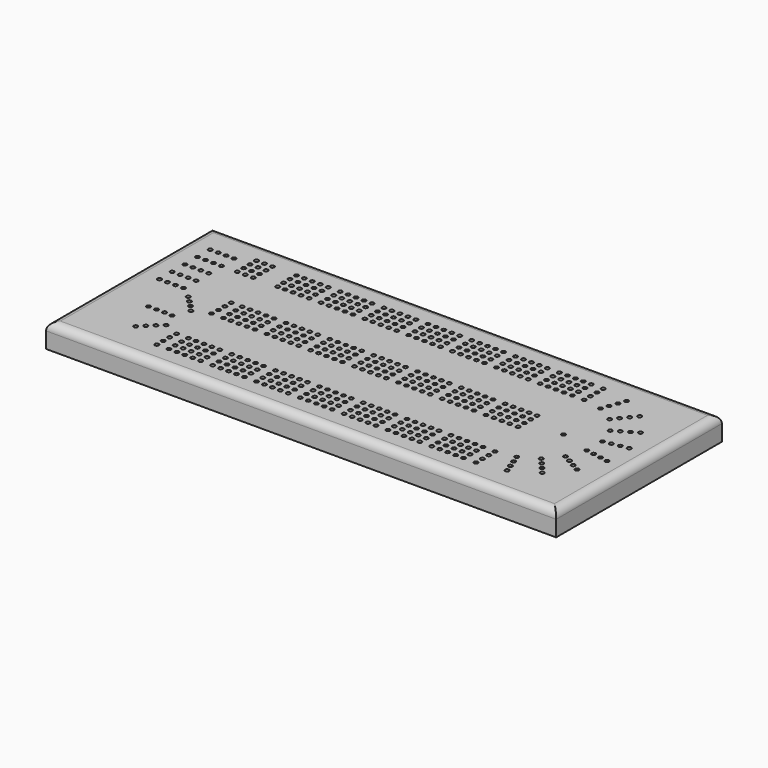
from build123d import *

# Parameters (mm, degrees)
F0_W     = 406.4
F0_H     = 165.1
F1_DEPTH = 19.05
F2_R     = 6.35
F3_R     = 1.5875
F4_DEPTH = 6.35


with BuildPart() as f1:
    # F0 (on Top) → F1 (new body)
    with BuildSketch(Plane.XY):
        with Locations((203.2, 82.55)):
            Rectangle(F0_W, F0_H)
    extrude(amount=F1_DEPTH)

    # F2
    f2_edges = [f1.edges().sort_by_distance(p)[0] for p in [
        (0, 82.55, 19.05),
        (203.2, 165.1, 19.05),
        (203.2, 0, 19.05),
        (406.4, 82.55, 19.05),
    ]]
    fillet(f2_edges, radius=F2_R)

    # F3 (on face) → F4 (cut)
    with BuildSketch(Plane.XY.offset(19.05)):
        with BuildLine():
            ThreePointArc((20.6375, 139.7), (19.05, 141.2875), (17.4625, 139.7))
            Line((17.4625, 139.7), (19.05, 139.7))
            Line((19.05, 139.7), (20.6375, 139.7))
        make_face()
        with BuildLine():
            ThreePointArc((39.6875, 139.7), (38.1, 141.2875), (36.5125, 139.7))
            ThreePointArc((36.5125, 139.7), (38.1, 138.1125), (39.6875, 139.7))
        make_face()
        with BuildLine():
            ThreePointArc((33.3375, 139.7), (31.75, 141.2875), (30.1625, 139.7))
            Line((30.1625, 139.7), (31.75, 139.7))
            Line((31.75, 139.7), (33.3375, 139.7))
        make_face()
        with BuildLine():
            Line((31.75, 139.7), (30.1625, 139.7))
            ThreePointArc((30.1625, 139.7), (31.75, 138.1125), (33.3375, 139.7))
            Line((33.3375, 139.7), (31.75, 139.7))
        make_face()
        with BuildLine():
            ThreePointArc((26.9875, 139.7), (25.4, 141.2875), (23.8125, 139.7))
            Line((23.8125, 139.7), (25.4, 139.7))
            Line((25.4, 139.7), (26.9875, 139.7))
        make_face()
        with BuildLine():
            Line((25.4, 139.7), (23.8125, 139.7))
            ThreePointArc((23.8125, 139.7), (25.4, 138.1125), (26.9875, 139.7))
            Line((26.9875, 139.7), (25.4, 139.7))
        make_face()
        with BuildLine():
            Line((19.05, 139.7), (17.4625, 139.7))
            ThreePointArc((17.4625, 139.7), (19.05, 138.1125), (20.6375, 139.7))
            Line((20.6375, 139.7), (19.05, 139.7))
        make_face()
        with Locations((50.8, 146.05)):
            Circle(F3_R)
        with Locations((50.8, 139.7)):
            Circle(F3_R)
        with Locations((50.8, 133.35)):
            Circle(F3_R)
        with Locations((50.8, 127)):
            Circle(F3_R)
        with Locations((31.796032, 127.000083)):
            Circle(F3_R)
        with Locations((25.446032, 127.000083)):
            Circle(F3_R)
        with Locations((19.096032, 127.000083)):
            Circle(F3_R)
        with Locations((38.146032, 127.000083)):
            Circle(F3_R)
        with Locations((31.842063, 114.300167)):
            Circle(F3_R)
        with Locations((25.492063, 114.300167)):
            Circle(F3_R)
        with Locations((19.142063, 114.300167)):
            Circle(F3_R)
        with Locations((38.192063, 114.300167)):
            Circle(F3_R)
        with Locations((31.888095, 101.60025)):
            Circle(F3_R)
        with Locations((25.538095, 101.60025)):
            Circle(F3_R)
        with Locations((19.188095, 101.60025)):
            Circle(F3_R)
        with Locations((38.238095, 101.60025)):
            Circle(F3_R)
        with Locations((31.934126, 88.900334)):
            Circle(F3_R)
        with Locations((25.584126, 88.900334)):
            Circle(F3_R)
        with Locations((19.234126, 88.900334)):
            Circle(F3_R)
        with Locations((38.284126, 88.900334)):
            Circle(F3_R)
        with Locations((57.15, 146.05)):
            Circle(F3_R)
        with Locations((57.15, 139.7)):
            Circle(F3_R)
        with Locations((57.15, 133.35)):
            Circle(F3_R)
        with Locations((57.15, 127)):
            Circle(F3_R)
        with Locations((63.5, 146.05)):
            Circle(F3_R)
        with Locations((63.5, 139.7)):
            Circle(F3_R)
        with Locations((63.5, 133.35)):
            Circle(F3_R)
        with Locations((63.5, 127)):
            Circle(F3_R)
        with Locations((95.25, 133.35)):
            Circle(F3_R)
        with Locations((88.9, 139.7)):
            Circle(F3_R)
        with Locations((88.9, 146.05)):
            Circle(F3_R)
        with Locations((82.55, 133.35)):
            Circle(F3_R)
        with Locations((82.55, 139.7)):
            Circle(F3_R)
        with Locations((82.55, 146.05)):
            Circle(F3_R)
        with Locations((95.25, 139.7)):
            Circle(F3_R)
        with Locations((95.25, 146.05)):
            Circle(F3_R)
        with Locations((88.9, 133.35)):
            Circle(F3_R)
        with Locations((82.973688, 127.005139)):
            Circle(F3_R)
        with Locations((95.25, 127)):
            Circle(F3_R)
        with Locations((88.9, 127)):
            Circle(F3_R)
        with Locations((101.6, 139.7)):
            Circle(F3_R)
        with Locations((101.6, 133.35)):
            Circle(F3_R)
        with Locations((101.6, 127)):
            Circle(F3_R)
        with Locations((101.6, 146.05)):
            Circle(F3_R)
        with Locations((107.95, 139.7)):
            Circle(F3_R)
        with Locations((107.95, 133.35)):
            Circle(F3_R)
        with Locations((107.95, 127)):
            Circle(F3_R)
        with Locations((107.95, 146.05)):
            Circle(F3_R)
        with Locations((142.875, 146.05)):
            Circle(F3_R)
        with Locations((117.475, 146.05)):
            Circle(F3_R)
        with Locations((136.525, 139.7)):
            Circle(F3_R)
        with Locations((123.825, 146.05)):
            Circle(F3_R)
        with Locations((117.475, 127)):
            Circle(F3_R)
        with Locations((142.875, 133.35)):
            Circle(F3_R)
        with Locations((117.475, 133.35)):
            Circle(F3_R)
        with Locations((130.175, 127)):
            Circle(F3_R)
        with Locations((123.825, 127)):
            Circle(F3_R)
        with Locations((142.875, 127)):
            Circle(F3_R)
        with Locations((117.475, 139.7)):
            Circle(F3_R)
        with Locations((130.175, 139.7)):
            Circle(F3_R)
        with Locations((136.525, 133.35)):
            Circle(F3_R)
        with Locations((136.525, 146.05)):
            Circle(F3_R)
        with Locations((123.825, 139.7)):
            Circle(F3_R)
        with Locations((130.175, 146.05)):
            Circle(F3_R)
        with Locations((123.825, 133.35)):
            Circle(F3_R)
        with Locations((142.875, 139.7)):
            Circle(F3_R)
        with Locations((136.525, 127)):
            Circle(F3_R)
        with Locations((130.175, 133.35)):
            Circle(F3_R)
        with Locations((177.8, 146.05)):
            Circle(F3_R)
        with Locations((152.4, 146.05)):
            Circle(F3_R)
        with Locations((171.45, 139.7)):
            Circle(F3_R)
        with Locations((158.75, 146.05)):
            Circle(F3_R)
        with Locations((152.4, 127)):
            Circle(F3_R)
        with Locations((177.8, 133.35)):
            Circle(F3_R)
        with Locations((152.4, 133.35)):
            Circle(F3_R)
        with Locations((165.1, 127)):
            Circle(F3_R)
        with Locations((158.75, 127)):
            Circle(F3_R)
        with Locations((177.8, 127)):
            Circle(F3_R)
        with Locations((152.4, 139.7)):
            Circle(F3_R)
        with Locations((165.1, 139.7)):
            Circle(F3_R)
        with Locations((171.45, 133.35)):
            Circle(F3_R)
        with Locations((171.45, 146.05)):
            Circle(F3_R)
        with Locations((158.75, 139.7)):
            Circle(F3_R)
        with Locations((165.1, 146.05)):
            Circle(F3_R)
        with Locations((158.75, 133.35)):
            Circle(F3_R)
        with Locations((177.8, 139.7)):
            Circle(F3_R)
        with Locations((171.45, 127)):
            Circle(F3_R)
        with Locations((165.1, 133.35)):
            Circle(F3_R)
        with Locations((212.725, 146.05)):
            Circle(F3_R)
        with Locations((187.325, 146.05)):
            Circle(F3_R)
        with Locations((206.375, 139.7)):
            Circle(F3_R)
        with Locations((193.675, 146.05)):
            Circle(F3_R)
        with Locations((187.325, 127)):
            Circle(F3_R)
        with Locations((212.725, 133.35)):
            Circle(F3_R)
        with Locations((187.325, 133.35)):
            Circle(F3_R)
        with Locations((200.025, 127)):
            Circle(F3_R)
        with Locations((193.675, 127)):
            Circle(F3_R)
        with Locations((212.725, 127)):
            Circle(F3_R)
        with Locations((187.325, 139.7)):
            Circle(F3_R)
        with Locations((200.025, 139.7)):
            Circle(F3_R)
        with Locations((206.375, 133.35)):
            Circle(F3_R)
        with Locations((206.375, 146.05)):
            Circle(F3_R)
        with Locations((193.675, 139.7)):
            Circle(F3_R)
        with Locations((200.025, 146.05)):
            Circle(F3_R)
        with Locations((193.675, 133.35)):
            Circle(F3_R)
        with Locations((212.725, 139.7)):
            Circle(F3_R)
        with Locations((206.375, 127)):
            Circle(F3_R)
        with Locations((200.025, 133.35)):
            Circle(F3_R)
        with Locations((247.65, 146.05)):
            Circle(F3_R)
        with Locations((222.25, 146.05)):
            Circle(F3_R)
        with Locations((241.3, 139.7)):
            Circle(F3_R)
        with Locations((228.6, 146.05)):
            Circle(F3_R)
        with Locations((222.25, 127)):
            Circle(F3_R)
        with Locations((247.65, 133.35)):
            Circle(F3_R)
        with Locations((222.25, 133.35)):
            Circle(F3_R)
        with Locations((234.95, 127)):
            Circle(F3_R)
        with Locations((228.6, 127)):
            Circle(F3_R)
        with Locations((247.65, 127)):
            Circle(F3_R)
        with Locations((222.25, 139.7)):
            Circle(F3_R)
        with Locations((234.95, 139.7)):
            Circle(F3_R)
        with Locations((241.3, 133.35)):
            Circle(F3_R)
        with Locations((241.3, 146.05)):
            Circle(F3_R)
        with Locations((228.6, 139.7)):
            Circle(F3_R)
        with Locations((234.95, 146.05)):
            Circle(F3_R)
        with Locations((228.6, 133.35)):
            Circle(F3_R)
        with Locations((247.65, 139.7)):
            Circle(F3_R)
        with Locations((241.3, 127)):
            Circle(F3_R)
        with Locations((234.95, 133.35)):
            Circle(F3_R)
        with Locations((282.575, 146.05)):
            Circle(F3_R)
        with Locations((257.175, 146.05)):
            Circle(F3_R)
        with Locations((276.225, 139.7)):
            Circle(F3_R)
        with Locations((263.525, 146.05)):
            Circle(F3_R)
        with Locations((257.175, 127)):
            Circle(F3_R)
        with Locations((282.575, 133.35)):
            Circle(F3_R)
        with Locations((257.175, 133.35)):
            Circle(F3_R)
        with Locations((269.875, 127)):
            Circle(F3_R)
        with Locations((263.525, 127)):
            Circle(F3_R)
        with Locations((282.575, 127)):
            Circle(F3_R)
        with Locations((257.175, 139.7)):
            Circle(F3_R)
        with Locations((269.875, 139.7)):
            Circle(F3_R)
        with Locations((276.225, 133.35)):
            Circle(F3_R)
        with Locations((276.225, 146.05)):
            Circle(F3_R)
        with Locations((263.525, 139.7)):
            Circle(F3_R)
        with Locations((269.875, 146.05)):
            Circle(F3_R)
        with Locations((263.525, 133.35)):
            Circle(F3_R)
        with Locations((282.575, 139.7)):
            Circle(F3_R)
        with Locations((276.225, 127)):
            Circle(F3_R)
        with Locations((269.875, 133.35)):
            Circle(F3_R)
        with Locations((317.5, 146.05)):
            Circle(F3_R)
        with Locations((292.1, 146.05)):
            Circle(F3_R)
        with Locations((311.15, 139.7)):
            Circle(F3_R)
        with Locations((298.45, 146.05)):
            Circle(F3_R)
        with Locations((292.1, 127)):
            Circle(F3_R)
        with Locations((317.5, 133.35)):
            Circle(F3_R)
        with Locations((292.1, 133.35)):
            Circle(F3_R)
        with Locations((304.8, 127)):
            Circle(F3_R)
        with Locations((298.45, 127)):
            Circle(F3_R)
        with Locations((317.634792, 127)):
            Circle(F3_R)
        with Locations((292.1, 139.7)):
            Circle(F3_R)
        with Locations((304.8, 139.7)):
            Circle(F3_R)
        with Locations((311.15, 133.35)):
            Circle(F3_R)
        with Locations((311.15, 146.05)):
            Circle(F3_R)
        with Locations((298.45, 139.7)):
            Circle(F3_R)
        with Locations((304.8, 146.05)):
            Circle(F3_R)
        with Locations((298.45, 133.35)):
            Circle(F3_R)
        with Locations((317.5, 139.7)):
            Circle(F3_R)
        with Locations((311.15, 127)):
            Circle(F3_R)
        with Locations((304.8, 133.35)):
            Circle(F3_R)
        with BuildLine():
            ThreePointArc((328.882084, 19.05), (328.368403, 20.219217), (327.159792, 20.631767))
            Line((327.159792, 20.631767), (327.159792, 17.468233))
            ThreePointArc((327.159792, 17.468233), (328.368403, 17.880783), (328.882084, 19.05))
        make_face()
        with BuildLine():
            Line((327.159792, 17.468233), (327.159792, 20.631767))
            ThreePointArc((327.159792, 20.631767), (325.707084, 19.05), (327.159792, 17.468233))
        make_face()
        with BuildLine():
            ThreePointArc((328.882084, 25.4), (328.368403, 26.569217), (327.159792, 26.981767))
            Line((327.159792, 26.981767), (327.159792, 23.818233))
            ThreePointArc((327.159792, 23.818233), (328.368403, 24.230783), (328.882084, 25.4))
        make_face()
        with BuildLine():
            Line((327.159792, 23.818233), (327.159792, 26.981767))
            ThreePointArc((327.159792, 26.981767), (325.707084, 25.4), (327.159792, 23.818233))
        make_face()
        with BuildLine():
            ThreePointArc((328.882084, 31.75), (328.368403, 32.919217), (327.159792, 33.331767))
            Line((327.159792, 33.331767), (327.159792, 30.168233))
            ThreePointArc((327.159792, 30.168233), (328.368403, 30.580783), (328.882084, 31.75))
        make_face()
        with BuildLine():
            Line((327.159792, 30.168233), (327.159792, 33.331767))
            ThreePointArc((327.159792, 33.331767), (325.707084, 31.75), (327.159792, 30.168233))
        make_face()
        with BuildLine():
            ThreePointArc((328.747292, 38.1), (328.282324, 39.222532), (327.159792, 39.6875))
            Line((327.159792, 39.6875), (327.159792, 36.5125))
            ThreePointArc((327.159792, 36.5125), (328.282324, 36.977468), (328.747292, 38.1))
        make_face()
        with BuildLine():
            Line((327.159792, 36.5125), (327.159792, 39.6875))
            ThreePointArc((327.159792, 39.6875), (325.572292, 38.1), (327.159792, 36.5125))
        make_face()
        with BuildLine():
            ThreePointArc((347.797292, 82.55), (346.209792, 84.1375), (344.622292, 82.55))
            Line((344.622292, 82.55), (346.209792, 82.55))
            Line((346.209792, 82.55), (347.797292, 82.55))
        make_face()
        with BuildLine():
            Line((346.209792, 82.55), (344.622292, 82.55))
            ThreePointArc((344.622292, 82.55), (346.209792, 80.9625), (347.797292, 82.55))
            Line((347.797292, 82.55), (346.209792, 82.55))
        make_face()
        with Locations((327.159792, 127)):
            Circle(F3_R)
        with Locations((327.025, 133.35)):
            Circle(F3_R)
        with Locations((327.025, 139.7)):
            Circle(F3_R)
        with Locations((327.025, 146.05)):
            Circle(F3_R)
        with Locations((348.751408, 142.266583)):
            Circle(F3_R)
        with Locations((346.57958, 136.299535)):
            Circle(F3_R)
        with Locations((342.362588, 124.319337)):
            Circle(F3_R)
        with Locations((344.407752, 130.332487)):
            Circle(F3_R)
        with Locations((367.873549, 131.280465)):
            Circle(F3_R)
        with Locations((363.791847, 126.416083)):
            Circle(F3_R)
        with Locations((355.731701, 116.600675)):
            Circle(F3_R)
        with Locations((359.710146, 121.5517)):
            Circle(F3_R)
        with Locations((382.085009, 114.416733)):
            Circle(F3_R)
        with Locations((376.585748, 111.241733)):
            Circle(F3_R)
        with Locations((365.654621, 104.775)):
            Circle(F3_R)
        with Locations((371.086487, 108.066733)):
            Circle(F3_R)
        with Locations((389.671678, 93.709404)):
            Circle(F3_R)
        with Locations((383.418149, 92.606738)):
            Circle(F3_R)
        with Locations((370.934497, 90.268661)):
            Circle(F3_R)
        with Locations((377.16462, 91.504072)):
            Circle(F3_R)
        with Locations((389.718491, 71.656085)):
            Circle(F3_R)
        with Locations((383.464962, 72.758751)):
            Circle(F3_R)
        with Locations((370.934497, 74.831339)):
            Circle(F3_R)
        with Locations((377.211432, 73.861417)):
            Circle(F3_R)
        with Locations((382.219801, 50.916733)):
            Circle(F3_R)
        with Locations((376.72054, 54.091733)):
            Circle(F3_R)
        with Locations((365.654621, 60.325)):
            Circle(F3_R)
        with Locations((371.221279, 57.266733)):
            Circle(F3_R)
        with Locations((368.080062, 33.992821)):
            Circle(F3_R)
        with Locations((363.998361, 38.857203)):
            Circle(F3_R)
        with Locations((355.731701, 48.499325)):
            Circle(F3_R)
        with Locations((359.91666, 43.721585)):
            Circle(F3_R)
        with Locations((349.004735, 22.92562)):
            Circle(F3_R)
        with Locations((346.832907, 28.892668)):
            Circle(F3_R)
        with Locations((342.362588, 40.780663)):
            Circle(F3_R)
        with Locations((344.661079, 34.859717)):
            Circle(F3_R)
        with Locations((317.5, 19.05)):
            Circle(F3_R)
        with Locations((311.15, 25.4)):
            Circle(F3_R)
        with Locations((317.5, 25.4)):
            Circle(F3_R)
        with Locations((276.225, 25.4)):
            Circle(F3_R)
        with Locations((95.25, 19.05)):
            Circle(F3_R)
        with Locations((123.825, 19.05)):
            Circle(F3_R)
        with Locations((257.175, 19.05)):
            Circle(F3_R)
        with Locations((282.575, 25.4)):
            Circle(F3_R)
        with Locations((311.15, 19.05)):
            Circle(F3_R)
        with Locations((142.875, 25.4)):
            Circle(F3_R)
        with Locations((171.45, 19.05)):
            Circle(F3_R)
        with Locations((95.25, 25.4)):
            Circle(F3_R)
        with Locations((136.525, 25.4)):
            Circle(F3_R)
        with Locations((171.45, 31.75)):
            Circle(F3_R)
        with Locations((117.475, 19.05)):
            Circle(F3_R)
        with Locations((95.25, 31.75)):
            Circle(F3_R)
        with Locations((263.525, 31.75)):
            Circle(F3_R)
        with Locations((311.15, 31.75)):
            Circle(F3_R)
        with Locations((269.875, 19.05)):
            Circle(F3_R)
        with Locations((304.8, 25.4)):
            Circle(F3_R)
        with Locations((165.1, 25.4)):
            Circle(F3_R)
        with Locations((228.6, 19.05)):
            Circle(F3_R)
        with Locations((228.6, 25.4)):
            Circle(F3_R)
        with Locations((257.175, 25.4)):
            Circle(F3_R)
        with Locations((241.3, 19.05)):
            Circle(F3_R)
        with Locations((317.5, 31.75)):
            Circle(F3_R)
        with Locations((117.475, 25.4)):
            Circle(F3_R)
        with Locations((101.6, 38.1)):
            Circle(F3_R)
        with Locations((177.8, 31.75)):
            Circle(F3_R)
        with Locations((298.45, 31.75)):
            Circle(F3_R)
        with Locations((101.6, 19.05)):
            Circle(F3_R)
        with Locations((263.525, 25.4)):
            Circle(F3_R)
        with Locations((292.1, 25.4)):
            Circle(F3_R)
        with Locations((130.175, 25.4)):
            Circle(F3_R)
        with Locations((177.8, 19.05)):
            Circle(F3_R)
        with Locations((130.175, 19.05)):
            Circle(F3_R)
        with Locations((241.3, 25.4)):
            Circle(F3_R)
        with Locations((158.75, 31.75)):
            Circle(F3_R)
        with Locations((107.95, 19.05)):
            Circle(F3_R)
        with BuildLine():
            ThreePointArc((317.634792, 39.6875), (316.51226, 36.977468), (319.222292, 38.1))
            ThreePointArc((319.222292, 38.1), (318.757324, 39.222532), (317.634792, 39.6875))
        make_face()
        with BuildLine():
            ThreePointArc((319.222292, 73.025), (316.51226, 74.147532), (317.634792, 71.4375))
            ThreePointArc((317.634792, 71.4375), (318.757324, 71.902468), (319.222292, 73.025))
        make_face()
        with Locations((123.825, 25.4)):
            Circle(F3_R)
        with Locations((222.25, 19.05)):
            Circle(F3_R)
        with Locations((142.875, 31.75)):
            Circle(F3_R)
        with Locations((101.6, 31.75)):
            Circle(F3_R)
        with Locations((304.8, 31.75)):
            Circle(F3_R)
        with Locations((88.9, 19.05)):
            Circle(F3_R)
        with Locations((234.95, 25.4)):
            Circle(F3_R)
        with Locations((101.6, 25.4)):
            Circle(F3_R)
        with Locations((165.1, 31.75)):
            Circle(F3_R)
        with Locations((276.225, 31.75)):
            Circle(F3_R)
        with Locations((311.15, 38.1)):
            Circle(F3_R)
        with Locations((222.25, 25.4)):
            Circle(F3_R)
        with Locations((158.75, 38.1)):
            Circle(F3_R)
        with Locations((107.95, 31.75)):
            Circle(F3_R)
        with Locations((263.525, 19.05)):
            Circle(F3_R)
        with Locations((269.875, 31.75)):
            Circle(F3_R)
        with Locations((234.95, 19.05)):
            Circle(F3_R)
        with Locations((304.8, 38.1)):
            Circle(F3_R)
        with Locations((269.875, 25.4)):
            Circle(F3_R)
        with Locations((165.1, 19.05)):
            Circle(F3_R)
        with Locations((136.525, 31.75)):
            Circle(F3_R)
        with Locations((107.95, 25.4)):
            Circle(F3_R)
        with Locations((88.9, 38.1)):
            Circle(F3_R)
        with Locations((171.45, 25.4)):
            Circle(F3_R)
        with Locations((88.9, 31.75)):
            Circle(F3_R)
        with Locations((282.575, 31.75)):
            Circle(F3_R)
        with Locations((95.25, 38.1)):
            Circle(F3_R)
        with Locations((177.8, 25.4)):
            Circle(F3_R)
        with Locations((117.475, 31.75)):
            Circle(F3_R)
        with Locations((276.225, 38.1)):
            Circle(F3_R)
        with Locations((298.45, 25.4)):
            Circle(F3_R)
        with Locations((158.75, 25.4)):
            Circle(F3_R)
        with Locations((187.325, 25.4)):
            Circle(F3_R)
        with Locations((222.25, 31.75)):
            Circle(F3_R)
        with Locations((212.725, 38.1)):
            Circle(F3_R)
        with Locations((247.65, 31.75)):
            Circle(F3_R)
        with Locations((123.825, 31.75)):
            Circle(F3_R)
        with Locations((193.675, 38.1)):
            Circle(F3_R)
        with Locations((222.25, 38.1)):
            Circle(F3_R)
        with Locations((82.55, 19.05)):
            Circle(F3_R)
        with Locations((206.375, 25.4)):
            Circle(F3_R)
        with Locations((152.4, 31.75)):
            Circle(F3_R)
        with Locations((282.575, 19.05)):
            Circle(F3_R)
        with Locations((82.55, 25.4)):
            Circle(F3_R)
        with Locations((142.875, 19.05)):
            Circle(F3_R)
        with Locations((234.95, 31.75)):
            Circle(F3_R)
        with Locations((200.025, 38.1)):
            Circle(F3_R)
        with Locations((206.375, 38.1)):
            Circle(F3_R)
        with Locations((212.725, 25.4)):
            Circle(F3_R)
        with Locations((257.175, 38.1)):
            Circle(F3_R)
        with Locations((292.1, 31.75)):
            Circle(F3_R)
        with Locations((187.325, 19.05)):
            Circle(F3_R)
        with Locations((241.3, 38.1)):
            Circle(F3_R)
        with Locations((152.4, 25.4)):
            Circle(F3_R)
        with Locations((187.325, 31.75)):
            Circle(F3_R)
        with Locations((206.375, 31.75)):
            Circle(F3_R)
        with Locations((247.65, 25.4)):
            Circle(F3_R)
        with Locations((228.6, 38.1)):
            Circle(F3_R)
        with Locations((276.225, 19.05)):
            Circle(F3_R)
        with Locations((177.8, 38.1)):
            Circle(F3_R)
        with Locations((212.725, 31.75)):
            Circle(F3_R)
        with BuildLine():
            ThreePointArc((82.973688, 39.682361), (81.851156, 36.972329), (84.561188, 38.094861))
            ThreePointArc((84.561188, 38.094861), (84.09622, 39.217393), (82.973688, 39.682361))
        make_face()
        with BuildLine():
            ThreePointArc((75.036188, 38.094861), (74.57122, 39.217393), (73.448688, 39.682361))
            ThreePointArc((73.448688, 39.682361), (72.326156, 36.972329), (75.036188, 38.094861))
        make_face()
        with BuildLine():
            ThreePointArc((84.561188, 73.030139), (81.851156, 74.152671), (82.973688, 71.442639))
            ThreePointArc((82.973688, 71.442639), (84.09622, 71.907607), (84.561188, 73.030139))
        make_face()
        with Locations((241.3, 31.75)):
            Circle(F3_R)
        with Locations((193.675, 31.75)):
            Circle(F3_R)
        with Locations((263.525, 38.1)):
            Circle(F3_R)
        with Locations((292.1, 38.1)):
            Circle(F3_R)
        with Locations((212.725, 19.05)):
            Circle(F3_R)
        with Locations((152.4, 38.1)):
            Circle(F3_R)
        with Locations((107.95, 38.1)):
            Circle(F3_R)
        with Locations((200.025, 19.05)):
            Circle(F3_R)
        with Locations((298.45, 19.05)):
            Circle(F3_R)
        with Locations((269.875, 38.1)):
            Circle(F3_R)
        with Locations((123.825, 38.1)):
            Circle(F3_R)
        with Locations((158.75, 19.05)):
            Circle(F3_R)
        with Locations((228.6, 31.75)):
            Circle(F3_R)
        with Locations((298.45, 38.1)):
            Circle(F3_R)
        with Locations((193.675, 25.4)):
            Circle(F3_R)
        with Locations((136.525, 19.05)):
            Circle(F3_R)
        with Locations((257.175, 31.75)):
            Circle(F3_R)
        with Locations((187.325, 38.1)):
            Circle(F3_R)
        with Locations((247.65, 19.05)):
            Circle(F3_R)
        with Locations((304.8, 19.05)):
            Circle(F3_R)
        with Locations((130.175, 31.75)):
            Circle(F3_R)
        with Locations((165.1, 38.1)):
            Circle(F3_R)
        with Locations((193.675, 19.05)):
            Circle(F3_R)
        with Locations((200.025, 31.75)):
            Circle(F3_R)
        with Locations((200.025, 25.4)):
            Circle(F3_R)
        with Locations((88.9, 25.4)):
            Circle(F3_R)
        with Locations((130.175, 38.1)):
            Circle(F3_R)
        with Locations((171.45, 38.1)):
            Circle(F3_R)
        with Locations((117.475, 38.1)):
            Circle(F3_R)
        with Locations((206.375, 19.05)):
            Circle(F3_R)
        with Locations((247.65, 38.1)):
            Circle(F3_R)
        with Locations((292.1, 19.05)):
            Circle(F3_R)
        with Locations((152.4, 19.05)):
            Circle(F3_R)
        with Locations((136.525, 38.1)):
            Circle(F3_R)
        with Locations((282.575, 38.1)):
            Circle(F3_R)
        with Locations((82.55, 31.75)):
            Circle(F3_R)
        with Locations((142.875, 38.1)):
            Circle(F3_R)
        with Locations((234.95, 38.1)):
            Circle(F3_R)
        with Locations((123.825, 92.075)):
            Circle(F3_R)
        with Locations((117.475, 92.075)):
            Circle(F3_R)
        with Locations((88.9, 92.075)):
            Circle(F3_R)
        with Locations((82.55, 92.075)):
            Circle(F3_R)
        with Locations((82.55, 79.375)):
            Circle(F3_R)
        with Locations((222.25, 79.375)):
            Circle(F3_R)
        with Locations((257.175, 73.025)):
            Circle(F3_R)
        with Locations((292.1, 73.025)):
            Circle(F3_R)
        with Locations((304.8, 92.075)):
            Circle(F3_R)
        with Locations((95.25, 85.725)):
            Circle(F3_R)
        with Locations((117.475, 85.725)):
            Circle(F3_R)
        with Locations((142.875, 79.375)):
            Circle(F3_R)
        with Locations((304.8, 73.025)):
            Circle(F3_R)
        with Locations((282.575, 73.025)):
            Circle(F3_R)
        with Locations((187.325, 85.725)):
            Circle(F3_R)
        with Locations((212.725, 85.725)):
            Circle(F3_R)
        with Locations((263.525, 73.025)):
            Circle(F3_R)
        with Locations((247.65, 92.075)):
            Circle(F3_R)
        with Locations((171.45, 92.075)):
            Circle(F3_R)
        with Locations((317.5, 79.375)):
            Circle(F3_R)
        with Locations((222.25, 92.075)):
            Circle(F3_R)
        with Locations((234.95, 92.075)):
            Circle(F3_R)
        with Locations((136.525, 73.025)):
            Circle(F3_R)
        with Locations((158.75, 85.725)):
            Circle(F3_R)
        with Locations((206.375, 73.025)):
            Circle(F3_R)
        with Locations((193.675, 79.375)):
            Circle(F3_R)
        with Locations((187.325, 73.025)):
            Circle(F3_R)
        with Locations((142.875, 85.725)):
            Circle(F3_R)
        with Locations((241.3, 92.075)):
            Circle(F3_R)
        with Locations((123.825, 85.725)):
            Circle(F3_R)
        with Locations((269.875, 79.375)):
            Circle(F3_R)
        with Locations((152.4, 92.075)):
            Circle(F3_R)
        with Locations((298.45, 85.725)):
            Circle(F3_R)
        with Locations((200.025, 73.025)):
            Circle(F3_R)
        with Locations((241.3, 79.375)):
            Circle(F3_R)
        with Locations((257.175, 79.375)):
            Circle(F3_R)
        with Locations((311.15, 92.075)):
            Circle(F3_R)
        with Locations((257.175, 85.725)):
            Circle(F3_R)
        with Locations((263.525, 92.075)):
            Circle(F3_R)
        with Locations((117.475, 73.025)):
            Circle(F3_R)
        with Locations((228.6, 79.375)):
            Circle(F3_R)
        with Locations((276.225, 92.075)):
            Circle(F3_R)
        with Locations((95.25, 92.075)):
            Circle(F3_R)
        with Locations((282.575, 92.075)):
            Circle(F3_R)
        with Locations((95.25, 73.025)):
            Circle(F3_R)
        with Locations((222.25, 85.725)):
            Circle(F3_R)
        with Locations((130.175, 92.075)):
            Circle(F3_R)
        with Locations((212.725, 73.025)):
            Circle(F3_R)
        with Locations((269.875, 85.725)):
            Circle(F3_R)
        with Locations((101.6, 73.025)):
            Circle(F3_R)
        with Locations((101.6, 79.375)):
            Circle(F3_R)
        with Locations((142.875, 73.025)):
            Circle(F3_R)
        with Locations((165.1, 85.725)):
            Circle(F3_R)
        with Locations((130.175, 79.375)):
            Circle(F3_R)
        with Locations((177.8, 85.725)):
            Circle(F3_R)
        with Locations((82.55, 85.725)):
            Circle(F3_R)
        with Locations((158.75, 73.025)):
            Circle(F3_R)
        with Locations((298.45, 73.025)):
            Circle(F3_R)
        with Locations((241.3, 85.725)):
            Circle(F3_R)
        with Locations((206.375, 92.075)):
            Circle(F3_R)
        with Locations((177.8, 73.025)):
            Circle(F3_R)
        with Locations((136.525, 79.375)):
            Circle(F3_R)
        with Locations((123.825, 79.375)):
            Circle(F3_R)
        with Locations((298.45, 79.375)):
            Circle(F3_R)
        with Locations((193.675, 92.075)):
            Circle(F3_R)
        with Locations((107.95, 73.025)):
            Circle(F3_R)
        with Locations((241.3, 73.025)):
            Circle(F3_R)
        with Locations((292.1, 79.375)):
            Circle(F3_R)
        with Locations((95.25, 79.375)):
            Circle(F3_R)
        with Locations((317.5, 92.075)):
            Circle(F3_R)
        with Locations((193.675, 73.025)):
            Circle(F3_R)
        with Locations((234.95, 85.725)):
            Circle(F3_R)
        with Locations((107.95, 85.725)):
            Circle(F3_R)
        with Locations((101.6, 92.075)):
            Circle(F3_R)
        with Locations((200.025, 92.075)):
            Circle(F3_R)
        with Locations((200.025, 79.375)):
            Circle(F3_R)
        with Locations((152.4, 85.725)):
            Circle(F3_R)
        with Locations((107.95, 79.375)):
            Circle(F3_R)
        with Locations((158.75, 79.375)):
            Circle(F3_R)
        with Locations((228.6, 92.075)):
            Circle(F3_R)
        with Locations((257.175, 92.075)):
            Circle(F3_R)
        with Locations((193.675, 85.725)):
            Circle(F3_R)
        with Locations((212.725, 79.375)):
            Circle(F3_R)
        with Locations((142.875, 92.075)):
            Circle(F3_R)
        with Locations((117.475, 79.375)):
            Circle(F3_R)
        with Locations((247.65, 73.025)):
            Circle(F3_R)
        with Locations((263.525, 79.375)):
            Circle(F3_R)
        with Locations((88.9, 73.025)):
            Circle(F3_R)
        with Locations((222.25, 73.025)):
            Circle(F3_R)
        with Locations((263.525, 85.725)):
            Circle(F3_R)
        with Locations((101.6, 85.725)):
            Circle(F3_R)
        with Locations((187.325, 79.375)):
            Circle(F3_R)
        with Locations((298.45, 92.075)):
            Circle(F3_R)
        with Locations((200.025, 85.725)):
            Circle(F3_R)
        with Locations((212.725, 92.075)):
            Circle(F3_R)
        with Locations((311.15, 79.375)):
            Circle(F3_R)
        with Locations((311.15, 85.725)):
            Circle(F3_R)
        with Locations((282.575, 79.375)):
            Circle(F3_R)
        with Locations((152.4, 79.375)):
            Circle(F3_R)
        with Locations((171.45, 85.725)):
            Circle(F3_R)
        with Locations((165.1, 79.375)):
            Circle(F3_R)
        with Locations((311.15, 73.025)):
            Circle(F3_R)
        with Locations((292.1, 85.725)):
            Circle(F3_R)
        with Locations((171.45, 73.025)):
            Circle(F3_R)
        with Locations((177.8, 92.075)):
            Circle(F3_R)
        with Locations((88.9, 85.725)):
            Circle(F3_R)
        with Locations((206.375, 79.375)):
            Circle(F3_R)
        with Locations((269.875, 73.025)):
            Circle(F3_R)
        with Locations((158.75, 92.075)):
            Circle(F3_R)
        with Locations((228.6, 73.025)):
            Circle(F3_R)
        with Locations((107.95, 92.075)):
            Circle(F3_R)
        with Locations((282.575, 85.725)):
            Circle(F3_R)
        with Locations((228.6, 85.725)):
            Circle(F3_R)
        with Locations((136.525, 92.075)):
            Circle(F3_R)
        with Locations((234.95, 79.375)):
            Circle(F3_R)
        with Locations((292.1, 92.075)):
            Circle(F3_R)
        with Locations((276.225, 73.025)):
            Circle(F3_R)
        with Locations((269.875, 92.075)):
            Circle(F3_R)
        with Locations((317.5, 85.725)):
            Circle(F3_R)
        with Locations((206.375, 85.725)):
            Circle(F3_R)
        with Locations((88.9, 79.375)):
            Circle(F3_R)
        with Locations((276.225, 79.375)):
            Circle(F3_R)
        with Locations((130.175, 85.725)):
            Circle(F3_R)
        with Locations((130.175, 73.025)):
            Circle(F3_R)
        with Locations((123.825, 73.025)):
            Circle(F3_R)
        with Locations((247.65, 85.725)):
            Circle(F3_R)
        with Locations((177.8, 79.375)):
            Circle(F3_R)
        with Locations((304.8, 79.375)):
            Circle(F3_R)
        with Locations((165.1, 92.075)):
            Circle(F3_R)
        with Locations((247.65, 79.375)):
            Circle(F3_R)
        with Locations((171.45, 79.375)):
            Circle(F3_R)
        with Locations((187.325, 92.075)):
            Circle(F3_R)
        with Locations((152.4, 73.025)):
            Circle(F3_R)
        with Locations((165.1, 73.025)):
            Circle(F3_R)
        with Locations((234.95, 73.025)):
            Circle(F3_R)
        with Locations((304.8, 85.725)):
            Circle(F3_R)
        with Locations((276.225, 85.725)):
            Circle(F3_R)
        with Locations((136.525, 85.725)):
            Circle(F3_R)
        with Locations((73.025, 31.75)):
            Circle(F3_R)
        with Locations((73.025, 25.4)):
            Circle(F3_R)
        with Locations((73.025, 19.05)):
            Circle(F3_R)
        with Locations((61.097202, 43.211014)):
            Circle(F3_R)
        with Locations((56.311115, 39.024112)):
            Circle(F3_R)
        with Locations((51.820987, 34.533984)):
            Circle(F3_R)
        with Locations((47.330859, 30.043856)):
            Circle(F3_R)
        with Locations((55.981049, 55.5625)):
            Circle(F3_R)
        with Locations((49.636188, 55.986188)):
            Circle(F3_R)
        with Locations((43.286188, 55.986188)):
            Circle(F3_R)
        with Locations((36.936188, 55.986188)):
            Circle(F3_R)
        with Locations((61.097202, 67.913986)):
            Circle(F3_R)
        with Locations((56.9103, 72.700073)):
            Circle(F3_R)
        with Locations((52.420172, 77.190201)):
            Circle(F3_R)
        with Locations((47.930044, 81.680329)):
            Circle(F3_R)
        with Locations((73.448688, 73.030139)):
            Circle(F3_R)
        with Locations((73.872376, 79.375)):
            Circle(F3_R)
        with Locations((73.872376, 85.725)):
            Circle(F3_R)
        with Locations((73.872376, 92.075)):
            Circle(F3_R)
    extrude(amount=-F4_DEPTH, mode=Mode.SUBTRACT)


solid = f1.part
